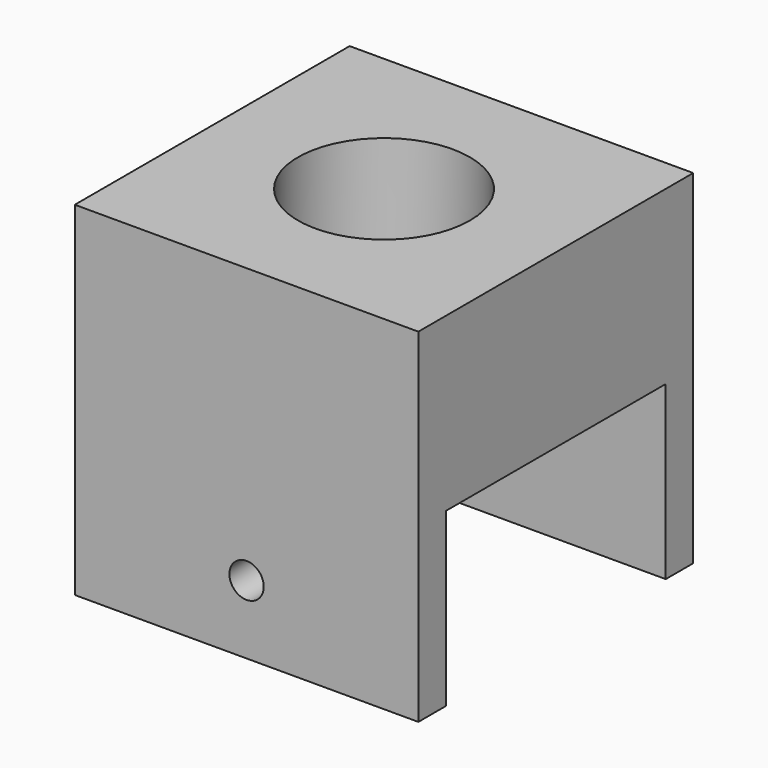
from build123d import *

# Parameters (mm, degrees)
F0_W     = 100
F0_H     = 100
F0_R     = 25
F1_DEPTH = 100
F2_W     = 80
F2_H     = 100
F3_DEPTH = 100
F4_R     = 5
F5_DEPTH = 100


with BuildPart() as f1:
    # F0 (on Top) → F1 (new body)
    with BuildSketch(Plane.XY):
        Rectangle(F0_W, F0_H)
        Circle(F0_R, mode=Mode.SUBTRACT)
    extrude(amount=F1_DEPTH)

    # F2 (on face) → F3 (cut)
    with BuildSketch(Plane.YZ.offset(50)):
        Rectangle(F2_W, F2_H)
    extrude(amount=-F3_DEPTH, mode=Mode.SUBTRACT)

    # F4 (on face) → F5 (cut)
    with BuildSketch(Plane(origin=(0, 50, 0), x_dir=(-1, 0, 0), z_dir=(0, 1, 0))):
        with Locations((0, 20)):
            Circle(F4_R)
    extrude(amount=-F5_DEPTH, mode=Mode.SUBTRACT)


solid = f1.part
